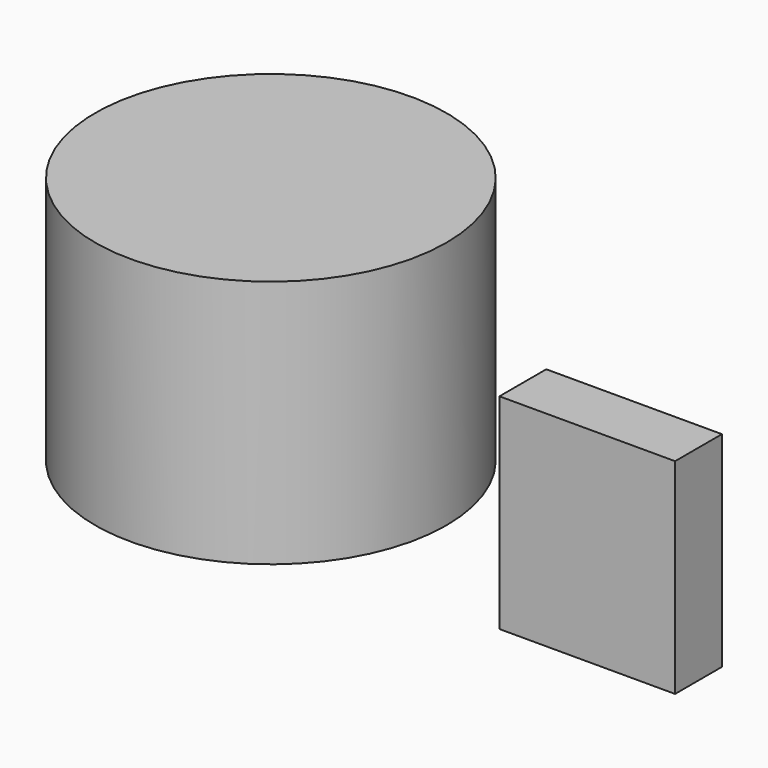
from build123d import *

# Parameters (mm, degrees)
F0_R     = 38.5205832367
F1_DEPTH = 107.95
F3_R     = 76.2
F4_DEPTH = 107.95
F5_W     = 76.2
F5_H     = 88.9
F6_DEPTH = 25.4


with BuildPart() as f1:
    # F0 (on Top) → F1 (new body)
    with BuildSketch(Plane.XY):
        with Locations((-23.3390182257, 8.7591558695)):
            Circle(F0_R)
    extrude(amount=F1_DEPTH)


with BuildPart() as f4:
    # F3 (on Top) → F4 (new body)
    with BuildSketch(Plane.XY):
        with Locations((-53.6301706501, 0)):
            Circle(F3_R)
    extrude(amount=F4_DEPTH)


with BuildPart() as f6:
    # F5 (on Front) → F6 (new body)
    with BuildSketch(Plane.XZ):
        with Locations((103.9764787052, 29.2519489303)):
            Rectangle(F5_W, F5_H)
    extrude(amount=F6_DEPTH)


solid = Compound([f4.part, f6.part])
